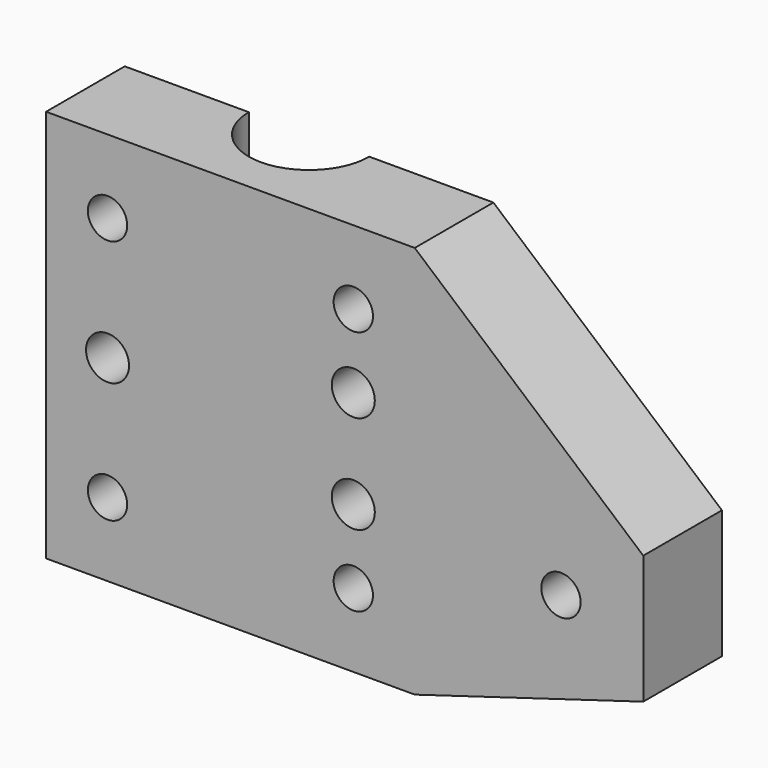
from build123d import *

# Parameters (mm, degrees)
SKETCH063_R     = 1.75
PAD039_DEPTH    = 8
SKETCH064_R     = 4.9
POCKET025_DEPTH = 38
SKETCH065_R     = 1.6
POCKET026_DEPTH = 10


with BuildPart() as part:
    # Sketch063 → Pad039 (new body)
    with BuildSketch(Plane.XZ):
        Polygon((-15, -16), (15, -16), (33.595724, -10.458334), (33.595724, 0), (15, 16), (-15, 16), align=None)
        with Locations((-10, 0)):
            Circle(SKETCH063_R, mode=Mode.SUBTRACT)
        with Locations((10, 4)):
            Circle(SKETCH063_R, mode=Mode.SUBTRACT)
        with Locations((10, -4)):
            Circle(SKETCH063_R, mode=Mode.SUBTRACT)
    extrude(amount=PAD039_DEPTH)

    # Sketch064 (on Face3 of Pad039) → Pocket025 (cut)
    with BuildSketch(Plane(origin=(0, 0, -16), x_dir=(1, 0, 0), z_dir=(0, 0, -1))):
        Circle(SKETCH064_R)
    extrude(amount=-POCKET025_DEPTH, mode=Mode.SUBTRACT)

    # Sketch065 (on Face2 of Pocket025) → Pocket026 (cut)
    with BuildSketch(Plane(origin=(0, 0, 0), x_dir=(1, 0, 0), z_dir=(0, 1, 0))):
        with Locations((26.9, 5)):
            Circle(SKETCH065_R)
        with Locations((-10, 10)):
            Circle(SKETCH065_R)
        with Locations((10, 10)):
            Circle(SKETCH065_R)
        with Locations((10, -10)):
            Circle(SKETCH065_R)
        with Locations((-10, -10)):
            Circle(SKETCH065_R)
    extrude(amount=-POCKET026_DEPTH, mode=Mode.SUBTRACT)


with BuildPart() as part_1:
    # Body011 placement: moved
    add(part.part.moved(Location((-1.1, -53.7, 39.5))))


solid = part_1.part
